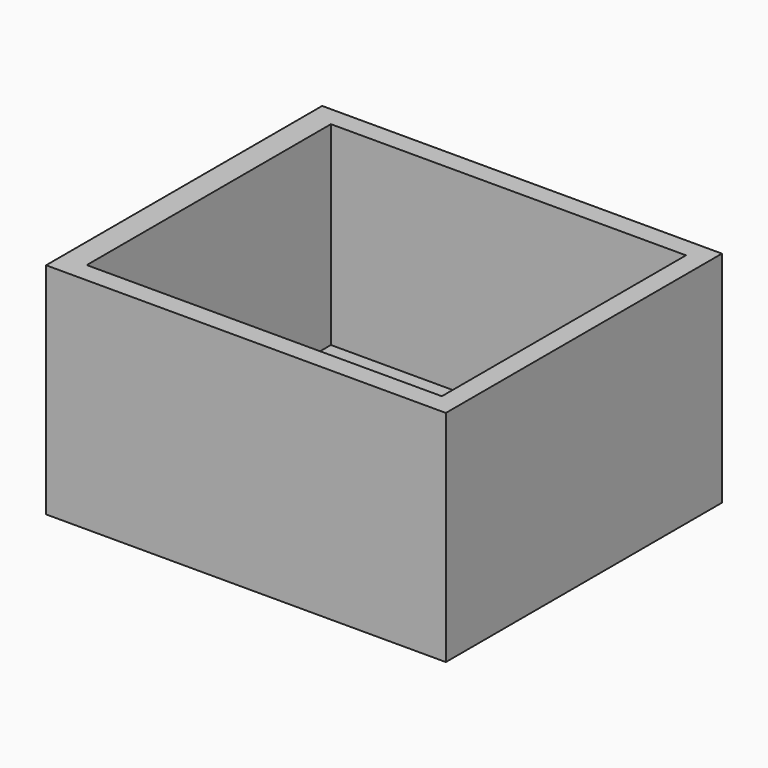
from build123d import *

# Parameters (mm, degrees)
F0_W     = 90.4587376863
F0_H     = 77.7452811599
F1_DEPTH = 6.35
F0_W_2   = 5.1199775189
F2_DEPTH = 55.88


with BuildPart() as f1:
    # F0 (on Top) → F1 (new body)
    with BuildSketch(Plane.XY):
        with Locations((-16.9725483283, -2.2788867354)):
            Rectangle(F0_W, F0_H)
    extrude(amount=F1_DEPTH)

    # F0 (on Top) → F2 (join)
    with BuildSketch(Plane.XY):
        Polygon((-62.2019171715, 41.6413508356), (-62.2019171715, 36.5937538445), (28.2568205148, 36.5937538445), (33.3767980337, 36.5937538445), (33.3767980337, 41.6413508356), align=None)
        Polygon((-62.2019171715, -41.1515273154), (-62.2019171715, 36.5937538445), (-62.2019171715, 41.6413508356), (-68.4723928571, 41.6413508356), (-68.4723928571, -46.2711900473), (-62.2019171715, -46.2711900473), align=None)
        with Locations((30.8168092743, -2.2788867354)):
            Rectangle(F0_W_2, F0_H)
        Polygon((28.2568205148, -41.1515273154), (-62.2019171715, -41.1515273154), (-62.2019171715, -46.2711900473), (33.3767980337, -46.2711900473), (33.3767980337, -41.1515273154), align=None)
    extrude(amount=F2_DEPTH)


solid = f1.part
